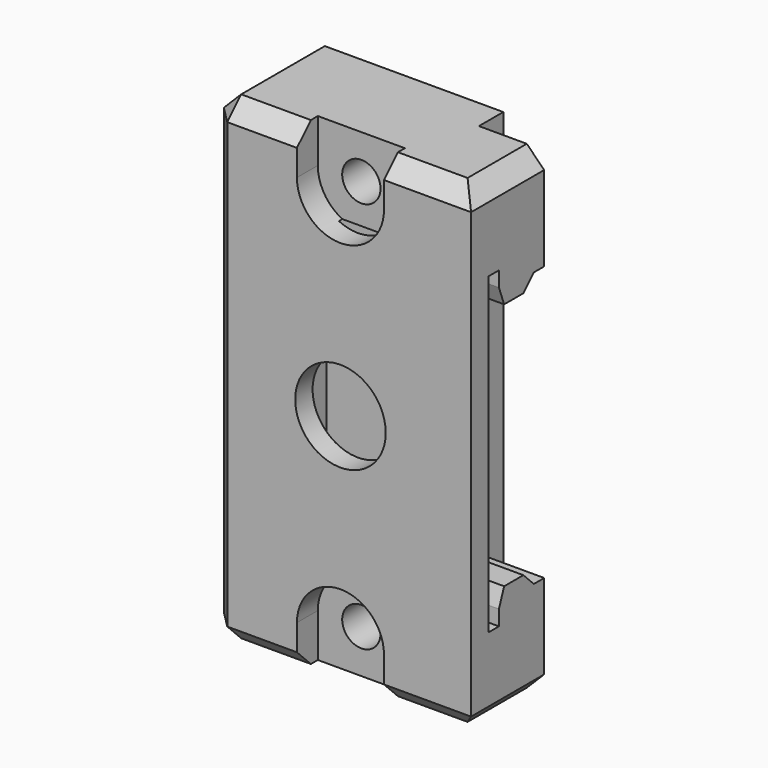
from build123d import *

# Parameters (mm, degrees)
BOX032_W              = 7.5
BOX032_H              = 3.5
BOX032_DEPTH          = 55
BOX028_W              = 30
BOX028_H              = 8
BOX028_DEPTH          = 28.5
BOX027_W              = 30
BOX027_H              = 1.5
BOX027_DEPTH          = 36
BOX033_W              = 30
BOX033_H              = 1.5
BOX033_DEPTH          = 31.5
CHAMFER022007_SIZE    = 1.49
CHAMFER022008_1_SIZE2 = 2
CHAMFER022008_1_SIZE  = 0.75
CHAMFER022008_2_SIZE2 = 2
CHAMFER022008_2_SIZE  = 0.75
BOX030_W              = 10
BOX030_H              = 10
BOX030_DEPTH          = 5
CYLINDER010_R         = 5
CYLINDER010_DEPTH     = 20
CYLINDER011_R         = 5
CYLINDER011_DEPTH     = 20
BOX031_W              = 10
BOX031_H              = 10
BOX031_DEPTH          = 5
CYLINDER014_R         = 2.2
CYLINDER014_DEPTH     = 20
CYLINDER013_R         = 2.2
CYLINDER013_DEPTH     = 20
CYLINDER012_R         = 2.2
CYLINDER012_DEPTH     = 21
CYLINDER009_R         = 5.2
CYLINDER009_DEPTH     = 21
BOX025_W              = 6
BOX025_H              = 2
BOX025_DEPTH          = 12
BOX029_W              = 6
BOX029_H              = 2
BOX029_DEPTH          = 12
BOX026_W              = 30
BOX026_H              = 14
BOX026_DEPTH          = 55
CHAMFER022009_SIZE    = 2


with BuildPart() as cube032:
    # Box032 → Box032 (new body)
    with BuildSketch(Plane(origin=(7.5, -2.5, 0), x_dir=(1, 0, 0), z_dir=(0, 0, 1))):
        with Locations((3.75, 1.75)):
            Rectangle(BOX032_W, BOX032_H)
    extrude(amount=BOX032_DEPTH)


with BuildPart() as cube028:
    # Box028 → Box028 (new body)
    with BuildSketch(Plane(origin=(-15, -10, 3.5), x_dir=(1, 0, 0), z_dir=(0, 0, 1))):
        with Locations((15, 4)):
            Rectangle(BOX028_W, BOX028_H)
    extrude(amount=BOX028_DEPTH)


with BuildPart() as cube027:
    # Box027 → Box027 (new body)
    with BuildSketch(Plane(origin=(-15, -10, -0.25), x_dir=(1, 0, 0), z_dir=(0, 0, 1))):
        with Locations((15, 0.75)):
            Rectangle(BOX027_W, BOX027_H)
    extrude(amount=BOX027_DEPTH)


with BuildPart() as chamfer022008:
    # Box033 → Box033 (new body)
    with BuildSketch(Plane(origin=(-15, -3.5, 2), x_dir=(1, 0, 0), z_dir=(0, 0, 1))):
        with Locations((15, 0.75)):
            Rectangle(BOX033_W, BOX033_H)
    extrude(amount=BOX033_DEPTH)

    # Fusion023: union Cube028, Cube027
    add(cube028.part)
    add(cube027.part)

    # Chamfer022007
    chamfer022007_edges = [chamfer022008.edges().sort_by_distance(p)[0] for p in [
        (0, -3.5, 3.5),
        (0, -3.5, 32),
    ]]
    chamfer(chamfer022007_edges, length=CHAMFER022007_SIZE)

    # Chamfer022008 1
    chamfer022008_1_edges = [chamfer022008.edges().sort_by_distance(p)[0] for p in [
        (0, -8.5, 3.5),
    ]]
    chamfer022008_1_side = chamfer022008.faces().sort_by_distance((0, -6.745, 3.5))[0]
    chamfer(chamfer022008_1_edges, length=CHAMFER022008_1_SIZE, length2=CHAMFER022008_1_SIZE2, reference=chamfer022008_1_side)

    # Chamfer022008 2
    chamfer022008_2_edges = [chamfer022008.edges().sort_by_distance(p)[0] for p in [
        (0, -8.5, 32),
    ]]
    chamfer022008_2_side = chamfer022008.faces().sort_by_distance((0, -6.745, 32))[0]
    chamfer(chamfer022008_2_edges, length=CHAMFER022008_2_SIZE, length2=CHAMFER022008_2_SIZE2, reference=chamfer022008_2_side)


with BuildPart() as chamfer022008_1:
    # Chamfer022008 placement: moved
    add(chamfer022008.part.moved(Location((5, -0.5, 9.75))))


with BuildPart() as cube030:
    # Box030 → Box030 (new body)
    with BuildSketch(Plane(origin=(-5, -20, 0), x_dir=(1, 0, 0), z_dir=(0, 0, 1))):
        with Locations((5, 5)):
            Rectangle(BOX030_W, BOX030_H)
    extrude(amount=BOX030_DEPTH)


with BuildPart() as cylinder010:
    # Cylinder010 → Cylinder010 (new body)
    with BuildSketch(Plane(origin=(0, 3, 5), x_dir=(1, 0, 0), z_dir=(0, -1, 0))):
        Circle(CYLINDER010_R)
    extrude(amount=CYLINDER010_DEPTH)


with BuildPart() as fusion016:
    # Cylinder011 → Cylinder011 (new body)
    with BuildSketch(Plane(origin=(0, 3, 50), x_dir=(1, 0, 0), z_dir=(0, -1, 0))):
        Circle(CYLINDER011_R)
    extrude(amount=CYLINDER011_DEPTH)

    # Fusion016: union Cylinder010
    add(cylinder010.part)


with BuildPart() as fusion016_1:
    # Fusion016 placement: moved
    add(fusion016.part.moved(Location((0, -13, 0))))


with BuildPart() as fusion017:
    # Box031 → Box031 (new body)
    with BuildSketch(Plane(origin=(-5, -20, 50), x_dir=(1, 0, 0), z_dir=(0, 0, 1))):
        with Locations((5, 5)):
            Rectangle(BOX031_W, BOX031_H)
    extrude(amount=BOX031_DEPTH)

    # Fusion017: union Cube030, Fusion016
    add(cube030.part)
    add(fusion016_1.part)


with BuildPart() as cylinder014:
    # Cylinder014 → Cylinder014 (new body)
    with BuildSketch(Plane(origin=(0, 3, 50), x_dir=(1, 0, 0), z_dir=(0, -1, 0))):
        Circle(CYLINDER014_R)
    extrude(amount=CYLINDER014_DEPTH)


with BuildPart() as cylinder013:
    # Cylinder013 → Cylinder013 (new body)
    with BuildSketch(Plane(origin=(0, 3, 5), x_dir=(1, 0, 0), z_dir=(0, -1, 0))):
        Circle(CYLINDER013_R)
    extrude(amount=CYLINDER013_DEPTH)


with BuildPart() as fusion014:
    # Cylinder012 → Cylinder012 (new body)
    with BuildSketch(Plane(origin=(0, 3, 27.5), x_dir=(1, 0, 0), z_dir=(0, -1, 0))):
        Circle(CYLINDER012_R)
    extrude(amount=CYLINDER012_DEPTH)

    # Fusion014: union Cylinder014, Cylinder013
    add(cylinder014.part)
    add(cylinder013.part)


with BuildPart() as fusion020:
    # Cylinder009 → Cylinder009 (new body)
    with BuildSketch(Plane(origin=(0, -5, 27.5), x_dir=(1, 0, 0), z_dir=(0, -1, 0))):
        Circle(CYLINDER009_R)
    extrude(amount=CYLINDER009_DEPTH)

    # Fusion020: union Fusion017, Fusion014
    add(fusion017.part)
    add(fusion014.part)


with BuildPart() as cube025:
    # Box025 → Box025 (new body)
    with BuildSketch(Plane(origin=(-3, 1, 10), x_dir=(1, 0, 0), z_dir=(0, 0, 1))):
        with Locations((3, 1)):
            Rectangle(BOX025_W, BOX025_H)
    extrude(amount=BOX025_DEPTH)


with BuildPart() as fusion021:
    # Box029 → Box029 (new body)
    with BuildSketch(Plane(origin=(-3, 1, 33), x_dir=(1, 0, 0), z_dir=(0, 0, 1))):
        with Locations((3, 1)):
            Rectangle(BOX029_W, BOX029_H)
    extrude(amount=BOX029_DEPTH)

    # Fusion021: union Cube025
    add(cube025.part)


with BuildPart() as chamfer022009:
    # Box026 → Box026 (new body)
    with BuildSketch(Plane(origin=(-15, -13, 0), x_dir=(1, 0, 0), z_dir=(0, 0, 1))):
        with Locations((15, 7)):
            Rectangle(BOX026_W, BOX026_H)
    extrude(amount=BOX026_DEPTH)

    # Fusion022: union Fusion021
    add(fusion021.part)

    # Cut024002: cut Fusion020
    add(fusion020.part, mode=Mode.SUBTRACT)

    # Cut024003: cut Chamfer022008
    add(chamfer022008_1.part, mode=Mode.SUBTRACT)

    # Cut024004: cut Cube032
    add(cube032.part, mode=Mode.SUBTRACT)

    # Chamfer022009
    chamfer022009_edges = [chamfer022009.edges().sort_by_distance(p)[0] for p in [
        (-15, -13, 27.5),
        (-15, -6, 55),
        (-15, -6, 0),
        (-10, -13, 0),
        (10, -13, 0),
        (10, -13, 55),
        (-10, -13, 55),
        (15, -7.75, 55),
        (15, -7.75, 0),
    ]]
    chamfer(chamfer022009_edges, length=CHAMFER022009_SIZE)


solid = chamfer022009.part
